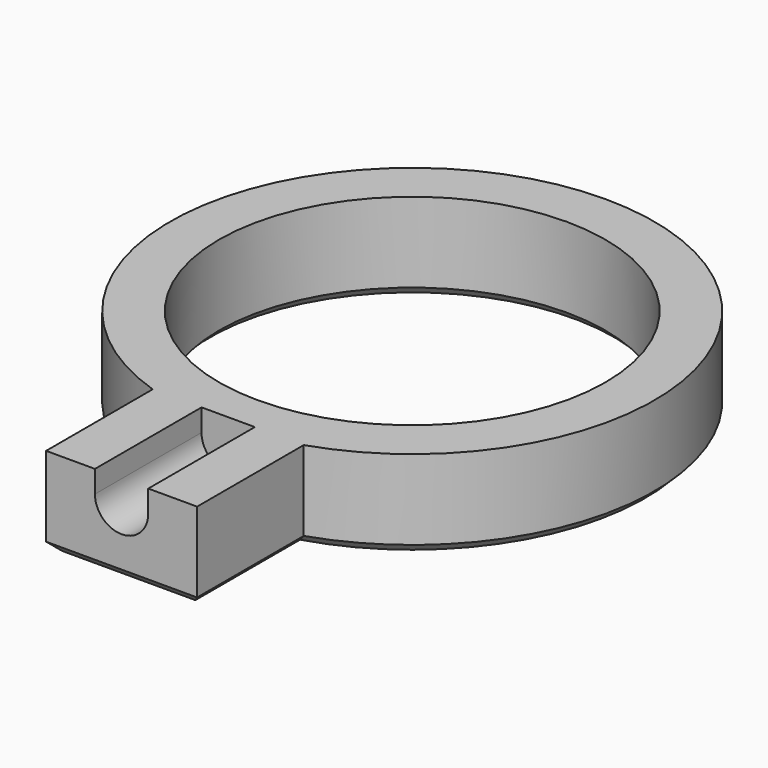
from build123d import *

# Parameters (mm, degrees)
F0_R     = 4.35
F4_DEPTH = 3
F5_SIZE  = 0.2


with BuildPart() as f2:
    # F2: sweep along a path in F1
    with BuildLine(Plane.XZ) as f2_path:
        Line((0, 0), (0, 2))
    # F0 (on Top) → F2 (sweep)
    with BuildSketch(Plane.XY):
        with BuildLine():
            Line((1.7, -8.178079), (1.7, -5.178079))
            ThreePointArc((1.7, -5.178079), (0, 5.45), (-1.7, -5.178079))
            Line((-1.7, -5.178079), (-1.7, -8.178079))
            Line((-1.7, -8.178079), (1.7, -8.178079))
        make_face()
        Circle(F0_R, mode=Mode.SUBTRACT)
    sweep(path=f2_path.line)

    # F3 (on face) → F4 (cut)
    with BuildSketch(Plane.XZ.offset(8.178079)):
        with BuildLine():
            Line((-0.6, 2), (-0.6, 1.5))
            ThreePointArc((-0.6, 1.5), (0, 0.9), (0.6, 1.5))
            Line((0.6, 1.5), (0.6, 2))
            Line((0.6, 2), (-0.6, 2))
        make_face()
    extrude(amount=-F4_DEPTH, mode=Mode.SUBTRACT)

    # F5
    f5_edges = [f2.edges().sort_by_distance(p)[0] for p in [
        (-1.7, -6.678079, 0),
        (0, 5.45, 0),
        (0, -8.178079, 0),
        (1.7, -6.678079, 0),
        (-4.35, 0, 0),
    ]]
    chamfer(f5_edges, length=F5_SIZE)


solid = f2.part
